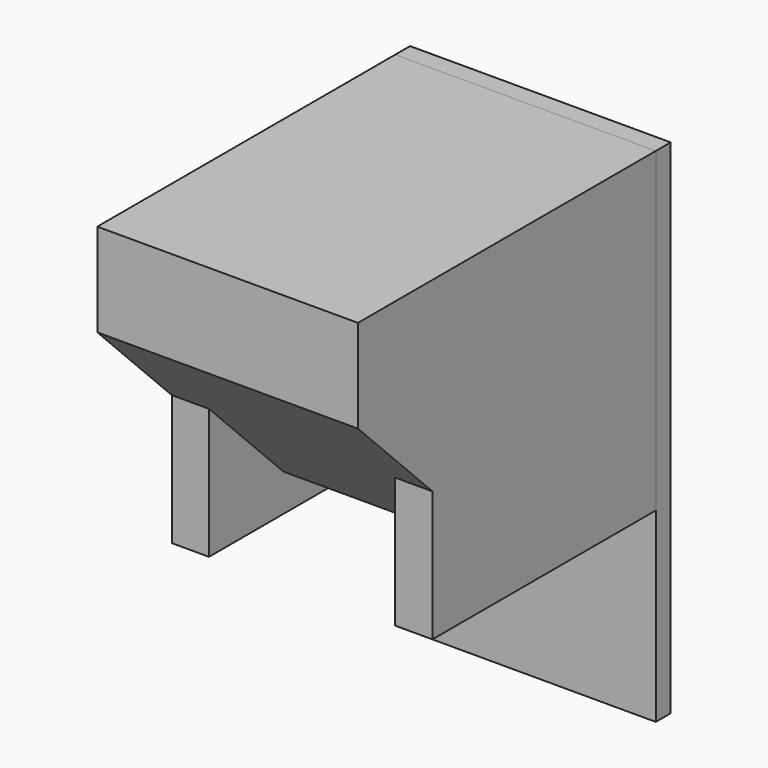
from build123d import *

# Parameters (mm, degrees)
F0_W     = 14
F0_H     = 20
F1_DEPTH = 15
F2_W     = 2
F2_H     = 15
F3_DEPTH = 2
F4_W     = 14
F4_H     = 1
F5_DEPTH = 27
F7_SIZE  = 10


with BuildPart() as f1:
    # F0 (on Top) → F1 (new body)
    with BuildSketch(Plane.XY):
        Rectangle(F0_W, F0_H)
    extrude(amount=F1_DEPTH)

    # F2 (on Top) → F3 (join, symmetric)
    with BuildSketch(Plane.XY):
        with Locations((6, 2.5)):
            Rectangle(F2_W, F2_H)
        with Locations((-6, 2.5)):
            Rectangle(F2_W, F2_H)
    extrude(amount=F3_DEPTH, both=True)

    # F7
    f7_edges = [f1.edges().sort_by_distance(p)[0] for p in [
        (0, -10, 0),
    ]]
    chamfer(f7_edges, length=F7_SIZE)


with BuildPart() as f5:
    # F4 (on Top) → F5 (new body)
    with BuildSketch(Plane.XY):
        with Locations((0, 10.5)):
            Rectangle(F4_W, F4_H)
    extrude(amount=-F5_DEPTH)


with BuildPart() as f5_1:
    # F6: moved
    add(f5.part.moved(Location((0, 0, 15))))


solid = Compound([f1.part, f5_1.part])
